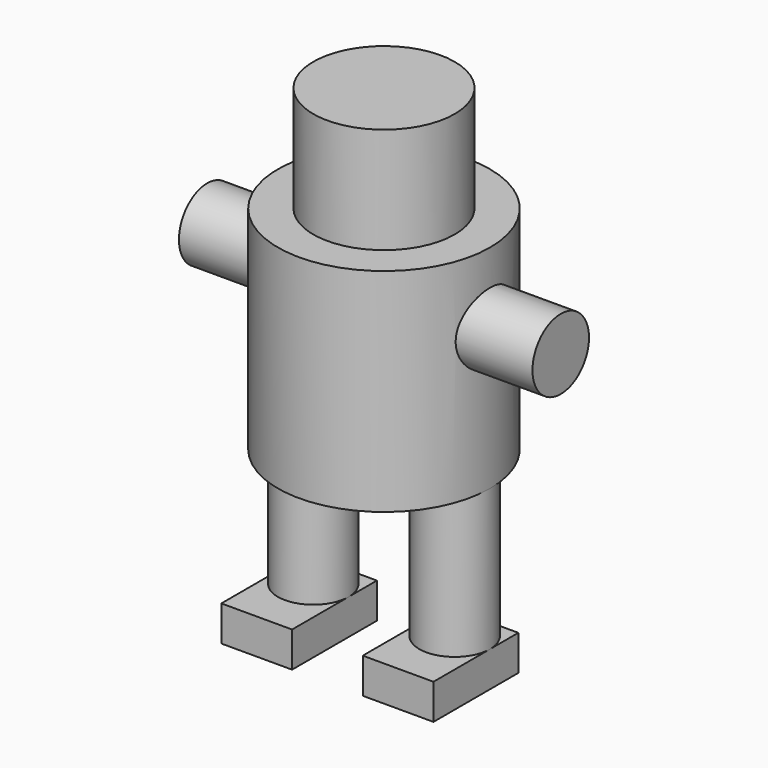
from build123d import *

# Parameters (mm, degrees)
F0_R      = 5
F1_DEPTH  = 20
F2_R      = 15
F3_DEPTH  = 30
F4_R      = 5
F5_DEPTH  = 25
F6_R      = 5
F7_DEPTH  = 25
F8_R      = 10
F9_DEPTH  = 15
F10_W     = 10
F10_H     = 15
F11_DEPTH = 5
F12_W     = 10
F12_H     = 15
F13_DEPTH = 5


with BuildPart() as f1:
    # F0 (on Top) → F1 (new body)
    with BuildSketch(Plane.XY):
        with Locations((10, 0)):
            Circle(F0_R)
        with Locations((-10, 0)):
            Circle(F0_R)
    extrude(amount=-F1_DEPTH)

    # F10 (on face) → F11 (join)
    with BuildSketch(Plane(origin=(0, 0, -20), x_dir=(1, 0, 0), z_dir=(0, 0, -1))):
        with Locations((-10, 2.5)):
            Rectangle(F10_W, F10_H)
    extrude(amount=F11_DEPTH)

    # F12 (on face) → F13 (join)
    with BuildSketch(Plane(origin=(0, 0, -20), x_dir=(1, 0, 0), z_dir=(0, 0, -1))):
        with Locations((10, 2.5)):
            Rectangle(F12_W, F12_H)
    extrude(amount=F13_DEPTH)


with BuildPart() as f3:
    # F2 (on Top) → F3 (new body)
    with BuildSketch(Plane.XY):
        Circle(F2_R)
    extrude(amount=F3_DEPTH)

    # F4 (on Right) → F5 (join)
    with BuildSketch(Plane.YZ):
        with Locations((0, 20)):
            Circle(F4_R)
    extrude(amount=F5_DEPTH)

    # F6 (on Right) → F7 (join)
    with BuildSketch(Plane.YZ):
        with Locations((0, 20)):
            Circle(F6_R)
    extrude(amount=-F7_DEPTH)

    # F8 (on face) → F9 (join)
    with BuildSketch(Plane.XY.offset(30)):
        Circle(F8_R)
    extrude(amount=F9_DEPTH)


solid = Compound([f1.part, f3.part])
